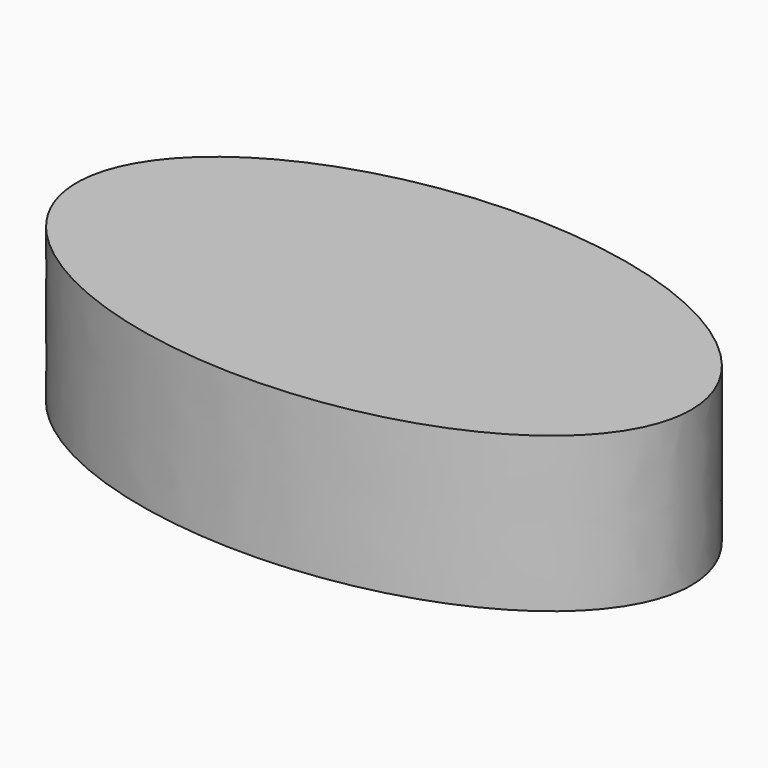
from build123d import *

# Parameters (mm, degrees)
F1_DEPTH = 88


with BuildPart() as f1:
    # F0 (on Top) → F1 (new body)
    with BuildSketch(Plane.XY):
        with BuildLine():
            add(Edge.make_bspline(
                [(175, 0), (175, 173.205081), (-87.5, 86.60254), (-350, 0), (-87.5, -86.60254), (175, -173.205081), (175, 0)],
                knots=[0, 0, 0, 2.094395, 2.094395, 4.18879, 4.18879, 6.283185, 6.283185, 6.283185], degree=2, weights=[1, 0.5, 1, 0.5, 1, 0.5, 1]))
        make_face()
    extrude(amount=-F1_DEPTH)


solid = f1.part
